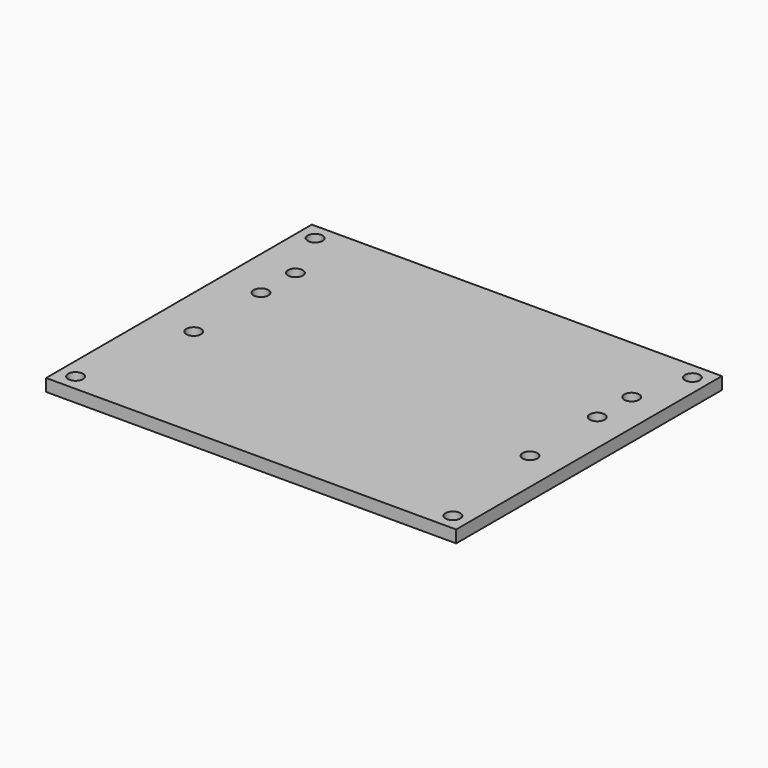
from build123d import *

# Parameters (mm, degrees)
CYLINDER012_R     = 1.8
CYLINDER012_DEPTH = 20
ARRAY007_X_COUNT  = 2
ARRAY007_X_PITCH  = 92
ARRAY007_Y_COUNT  = 2
ARRAY007_Y_PITCH  = 73
CYLINDER013_R     = 1.8
CYLINDER013_DEPTH = 20
ARRAY008_X_COUNT  = 2
ARRAY008_X_PITCH  = 82
CYLINDER011_R     = 1.8
CYLINDER011_DEPTH = 20
ARRAY_X_COUNT     = 2
ARRAY_X_PITCH     = 82
ARRAY_Y_COUNT     = 2
ARRAY_Y_PITCH     = 31
BOX_W             = 100
BOX_H             = 81
BOX_DEPTH         = 3


with BuildPart() as corner_hole_array:
    # Cylinder012 → Cylinder012 (new body)
    with BuildSketch(Plane(origin=(4, 4, -6), x_dir=(1, 0, 0), z_dir=(0, 0, 1))):
        Circle(CYLINDER012_R)
    extrude(amount=CYLINDER012_DEPTH)

    # Array007 X: corner hole array ×2


with BuildPart() as corner_hole_array_1:
    add(corner_hole_array.part)
    with Locations(*[(i * ARRAY007_X_PITCH, 0, 0) for i in range(1, ARRAY007_X_COUNT)]):
        add(corner_hole_array.part)

    # Array007 Y: corner hole array ×2


with BuildPart() as corner_hole_array_2:
    add(corner_hole_array_1.part)
    with Locations(*[(0, i * ARRAY007_Y_PITCH, 0) for i in range(1, ARRAY007_Y_COUNT)]):
        add(corner_hole_array_1.part)


with BuildPart() as screw_hole_array:
    # Cylinder013 → Cylinder013 (new body)
    with BuildSketch(Plane(origin=(10, 53, -6), x_dir=(1, 0, 0), z_dir=(0, 0, 1))):
        Circle(CYLINDER013_R)
    extrude(amount=CYLINDER013_DEPTH)

    # Array008 X: screw hole array ×2


with BuildPart() as screw_hole_array_1:
    add(screw_hole_array.part)
    with Locations(*[(i * ARRAY008_X_PITCH, 0, 0) for i in range(1, ARRAY008_X_COUNT)]):
        add(screw_hole_array.part)


with BuildPart() as hole_fusion:
    # Cylinder011 → Cylinder011 (new body)
    with BuildSketch(Plane(origin=(10, 32.5, -6), x_dir=(1, 0, 0), z_dir=(0, 0, 1))):
        Circle(CYLINDER011_R)
    extrude(amount=CYLINDER011_DEPTH)

    # Array X: hole fusion ×2


with BuildPart() as hole_fusion_1:
    add(hole_fusion.part)
    with Locations(*[(i * ARRAY_X_PITCH, 0, 0) for i in range(1, ARRAY_X_COUNT)]):
        add(hole_fusion.part)

    # Array Y: hole fusion ×2


with BuildPart() as hole_fusion_2:
    add(hole_fusion_1.part)
    with Locations(*[(0, i * ARRAY_Y_PITCH, 0) for i in range(1, ARRAY_Y_COUNT)]):
        add(hole_fusion_1.part)

    # Fusion: union corner hole array, screw hole array
    add(corner_hole_array_2.part)
    add(screw_hole_array_1.part)


with BuildPart() as bottom_part_cut:
    # Box → Box (new body)
    with BuildSketch(Plane.XY):
        with Locations((50, 40.5)):
            Rectangle(BOX_W, BOX_H)
    extrude(amount=BOX_DEPTH)

    # Cut008: cut hole fusion
    add(hole_fusion_2.part, mode=Mode.SUBTRACT)


solid = bottom_part_cut.part
